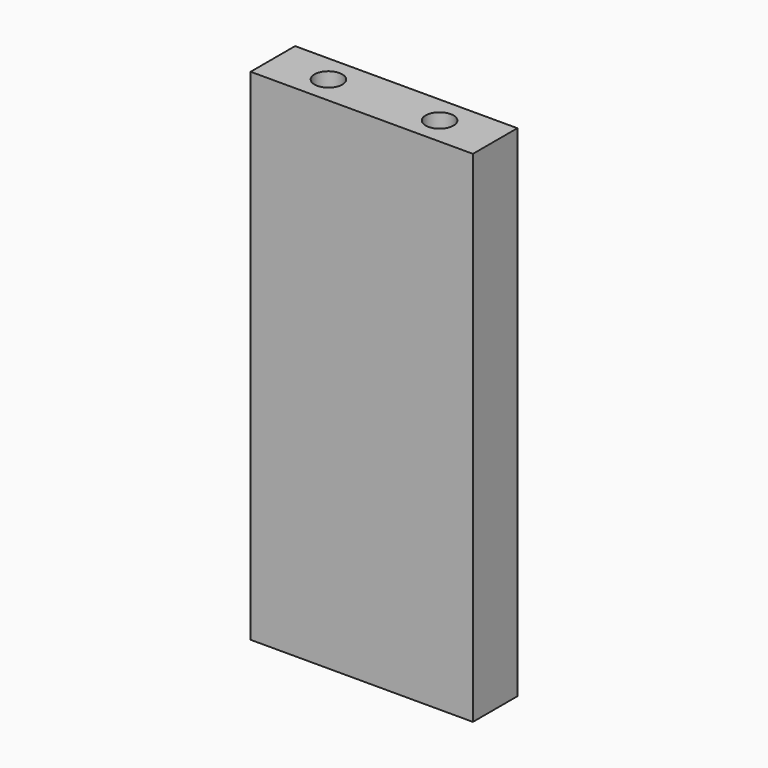
from build123d import *

# Parameters (mm, degrees)
F0_W          = 40
F0_H          = 10
F0_R          = 2.5
F1_DEPTH      = 45
F1_DEPTH_BACK = 45
F2_DEPTH      = 25
F2_DEPTH_BACK = 25


with BuildPart() as f1:
    # F0 (on Top) → F1 (new body, two sides)
    with BuildSketch(Plane.XY) as f1_sk:
        Rectangle(F0_W, F0_H)
        with Locations((-10, 0)):
            Circle(F0_R, mode=Mode.SUBTRACT)
        with Locations((10, 0)):
            Circle(F0_R, mode=Mode.SUBTRACT)
    extrude(amount=F1_DEPTH)
    extrude(f1_sk.sketch, amount=-F1_DEPTH_BACK)


with BuildPart() as f2:
    # F0 (on Top) → F2 (new body, two sides)
    with BuildSketch(Plane.XY) as f2_sk:
        with Locations((-10, 0)):
            Circle(F0_R)
        with Locations((10, 0)):
            Circle(F0_R)
    extrude(amount=F2_DEPTH)
    extrude(f2_sk.sketch, amount=-F2_DEPTH_BACK)


solid = Compound([f1.part, f2.part])
